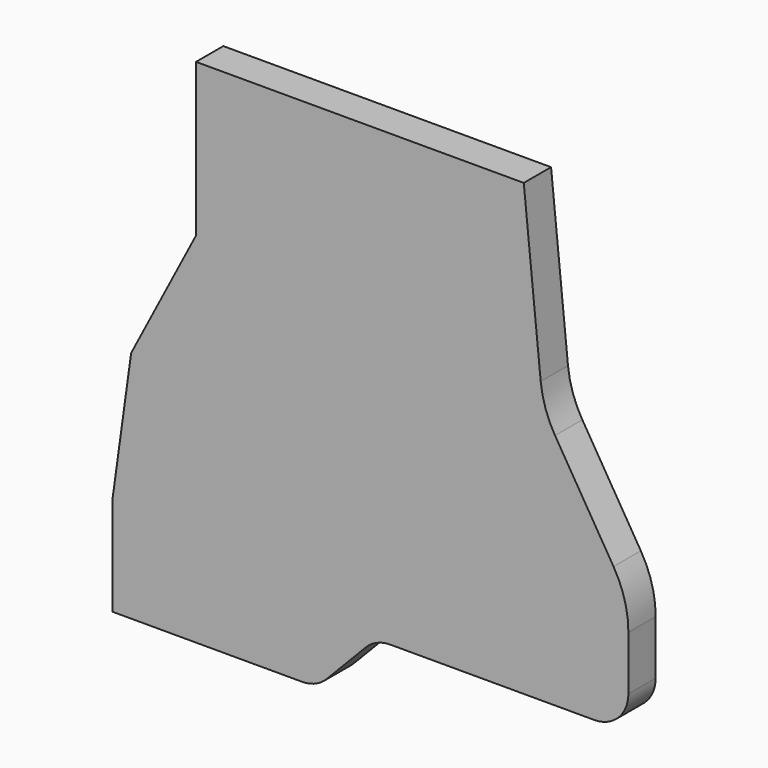
from build123d import *

# Parameters (mm, degrees)
F1_DEPTH = 6.35


with BuildPart() as f1:
    # F0 (on Front) → F1 (new body)
    with BuildSketch(Plane.XZ):
        with BuildLine():
            Line((21.332435, 18.212982), (21.332435, 0))
            Line((21.332435, 0), (56.653813, 0))
            ThreePointArc((56.653813, 0), (59.137729, 0.505972), (61.225805, 1.943257))
            Line((61.225805, 1.943257), (68.496529, 9.486627))
            ThreePointArc((68.496529, 9.486627), (70.584605, 10.923911), (73.068521, 11.429884))
            Line((73.068521, 11.429884), (111.03247, 11.429884))
            ThreePointArc((111.03247, 11.429884), (115.522598, 13.289755), (117.38247, 17.779884))
            Line((117.38247, 17.779884), (117.38247, 27.849807))
            ThreePointArc((117.38247, 27.849807), (116.677864, 32.982936), (114.616169, 37.736345))
            Line((114.616169, 37.736345), (103.733808, 55.660222))
            ThreePointArc((103.733808, 55.660222), (101.950588, 59.506153), (101.062049, 63.651216))
            Line((101.062049, 63.651216), (97.911447, 95.157258))
            Line((97.911447, 95.157258), (36.912486, 95.157258))
            Line((36.912486, 95.157258), (36.912486, 66.70589))
            Line((36.912486, 66.70589), (24.837947, 43.530565))
            Line((24.837947, 43.530565), (21.332435, 18.212982))
        make_face()
    extrude(amount=F1_DEPTH)


solid = f1.part
